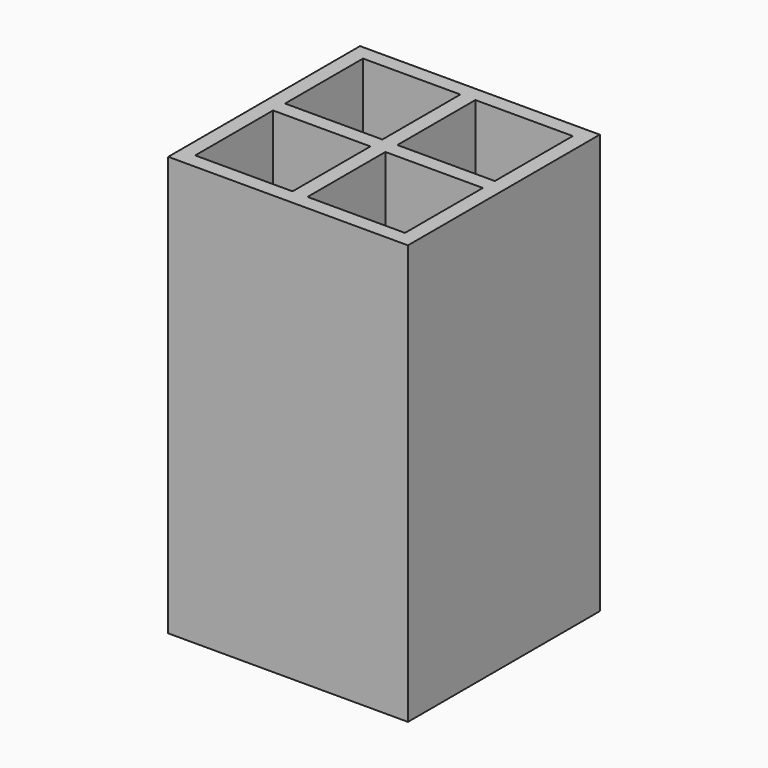
from build123d import *

# Parameters (mm, degrees)
F0_W     = 50.8
F0_H     = 50.8
F1_DEPTH = 88.9
F2_T     = -3.175
F3_W     = 3.175
F3_H     = 44.45
F4_DEPTH = 85.725
F5_W     = 44.45
F5_H     = 3.175
F6_DEPTH = 85.725


with BuildPart() as f1:
    # F0 (on Top) → F1 (new body)
    with BuildSketch(Plane.XY):
        Rectangle(F0_W, F0_H)
    extrude(amount=F1_DEPTH)

    # F2
    f2_openings = [f1.faces().sort_by_distance(p)[0] for p in [
        (0, 0, 88.9),
    ]]
    offset(amount=F2_T, openings=f2_openings)



with BuildPart() as f4:
    # F3 (on face) → F4 (new body)
    with BuildSketch(Plane.XY.offset(88.9)):
        with Locations((-0.0127, 0)):
            Rectangle(F3_W, F3_H)
    extrude(amount=-F4_DEPTH)


with BuildPart() as f1_1:
    add(f1.part)

    add(f4.part)  # F6 merges F4
    # F5 (on face) → F6 (join)
    with BuildSketch(Plane.XY.offset(3.175)):
        with Locations((0, -0.0127)):
            Rectangle(F5_W, F5_H)
    extrude(amount=F6_DEPTH)


solid = f1_1.part
